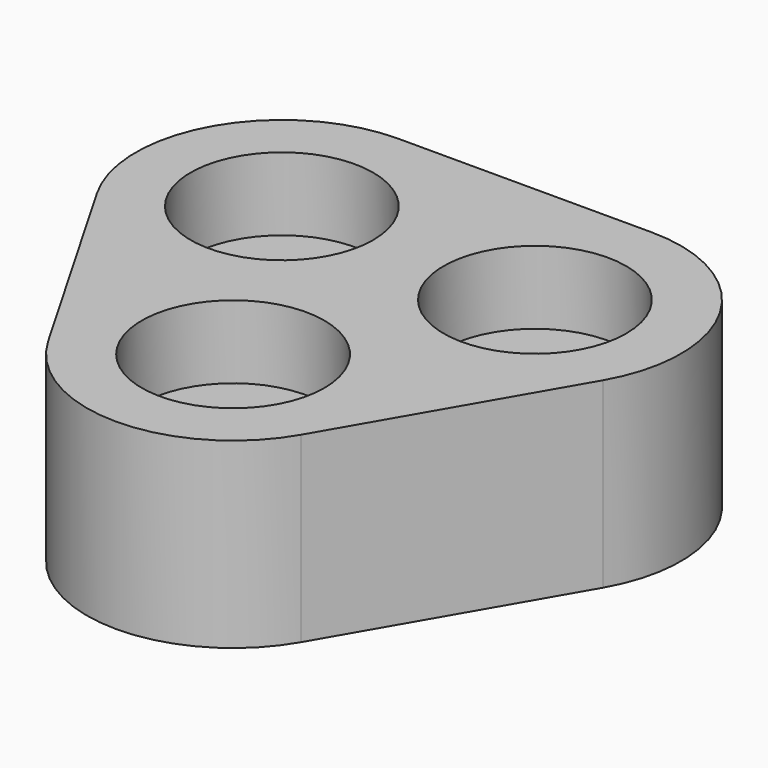
from build123d import *

# Parameters (mm, degrees)
F1_DEPTH = 25
F2_R     = 12.5
F3_DEPTH = 10


with BuildPart() as f1:
    # F0 (on Top) → F1 (new body)
    with BuildSketch(Plane.XY):
        with BuildLine():
            Line((17.320508, 30), (-17.320508, 30))
            ThreePointArc((-17.320508, 30), (-34.641016, 20), (-34.641016, 0))
            Line((-34.641016, 0), (-17.320508, -30))
            ThreePointArc((-17.320508, -30), (0, -40), (17.320508, -30))
            Line((17.320508, -30), (34.641016, 0))
            ThreePointArc((34.641016, 0), (34.641016, 20), (17.320508, 30))
        make_face()
    extrude(amount=F1_DEPTH)

    # F2 (on face) → F3 (cut)
    with BuildSketch(Plane.XY.offset(25)):
        with Locations((-17.320508, 10)):
            Circle(F2_R)
        with Locations((0, -20)):
            Circle(F2_R)
        with Locations((17.320508, 10)):
            Circle(F2_R)
    extrude(amount=-F3_DEPTH, mode=Mode.SUBTRACT)


solid = f1.part
